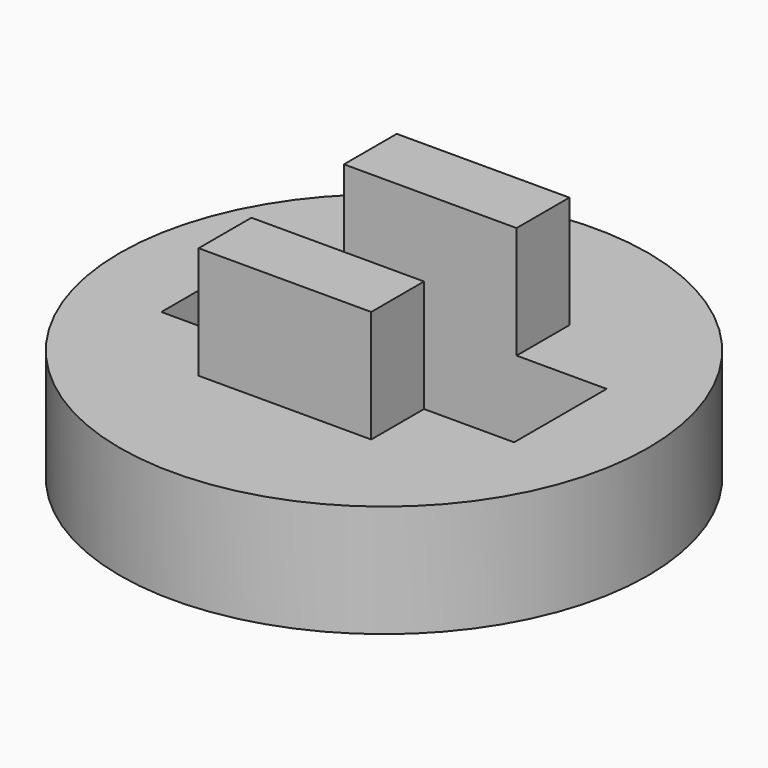
from build123d import *

# Parameters (mm, degrees)
F0_R     = 59.748892
F1_DEPTH = 25.4
F2_W     = 39.043996
F2_H     = 56.034788
F3_DEPTH = 25.4
F4_W     = 21.79923
F4_H     = 26.16598
F5_DEPTH = 50.8
F6_W     = 79.802156
F6_H     = 26.16598
F7_DEPTH = 50.801


with BuildPart() as f1:
    # F0 (on Top) → F1 (new body)
    with BuildSketch(Plane.XY):
        Circle(F0_R)
    extrude(amount=F1_DEPTH)

    # F2 (on face) → F3 (join)
    with BuildSketch(Plane.XY.offset(25.4)):
        Rectangle(F2_W, F2_H)
    extrude(amount=F3_DEPTH)

    # F4 (on face) → F5 (cut, through all)
    with BuildSketch(Plane.XY.offset(50.8)):
        Rectangle(F4_W, F4_H)
    extrude(amount=-F5_DEPTH, mode=Mode.SUBTRACT)

    # F6 (on face) → F7 (cut, through all)
    with BuildSketch(Plane.XY.offset(50.8)):
        Rectangle(F6_W, F6_H)
    extrude(amount=-F7_DEPTH, mode=Mode.SUBTRACT)


solid = f1.part
